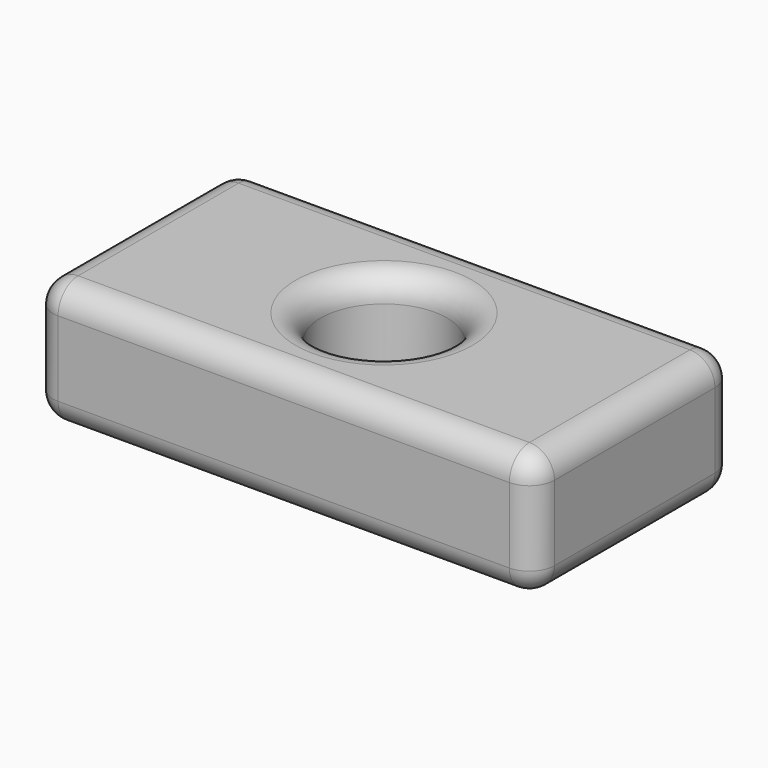
from build123d import *

# Parameters (mm, degrees)
F0_W     = 101.6
F0_H     = 50.8
F0_R     = 12.827
F1_DEPTH = 25.4
F2_R     = 5.08


with BuildPart() as f1:
    # F0 (on Top) → F1 (new body)
    with BuildSketch(Plane.XY):
        with Locations((4.339206, 2.658139)):
            Rectangle(F0_W, F0_H)
        with Locations((4.339206, 2.658139)):
            Circle(F0_R, mode=Mode.SUBTRACT)
    extrude(amount=F1_DEPTH)

    # F2
    f2_edges = [f1.edges().sort_by_distance(p)[0] for p in [
        (-46.460794, 2.658139, 25.4),
        (4.339206, -22.741861, 25.4),
        (55.139206, 2.658139, 25.4),
        (4.339206, 28.058139, 25.4),
        (-8.487794, 2.658139, 25.4),
        (-46.460794, 2.658139, 0),
        (4.339206, -22.741861, 0),
        (55.139206, 2.658139, 0),
        (4.339206, 28.058139, 0),
        (-8.487794, 2.658139, 0),
        (-46.460794, -22.741861, 12.7),
        (55.139206, -22.741861, 12.7),
        (55.139206, 28.058139, 12.7),
        (-46.460794, 28.058139, 12.7),
    ]]
    fillet(f2_edges, radius=F2_R)


solid = f1.part
